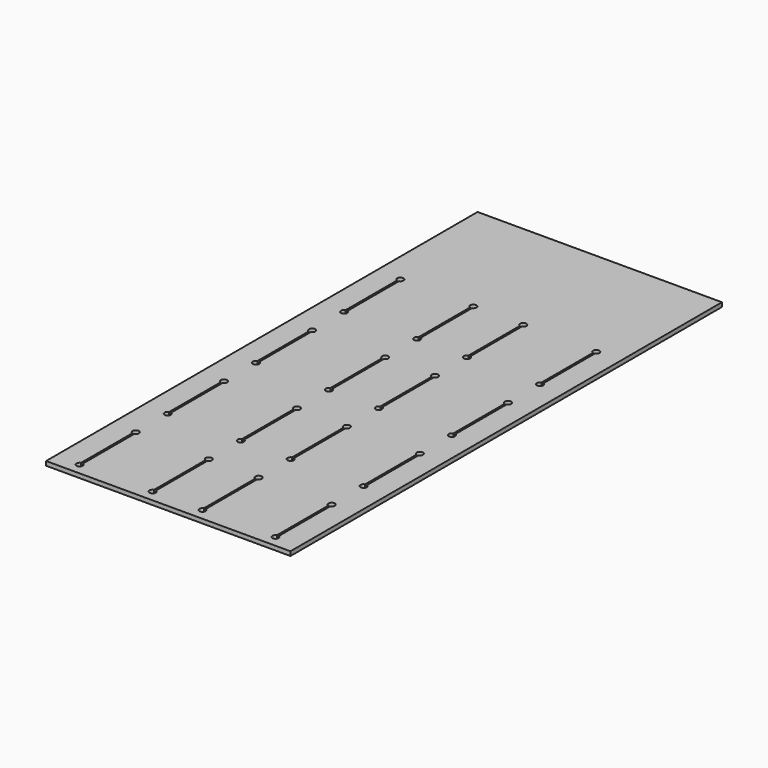
from build123d import *

# Parameters (mm, degrees)
F0_W     = 1104.9
F0_H     = 2438.4
F1_DEPTH = 19.05
F3_DEPTH = 3.175
F5_DEPTH = 25.4


with BuildPart() as f1:
    # F0 (on Top) → F1 (new body)
    with BuildSketch(Plane.XY):
        with Locations((609.6, 1219.2)):
            Rectangle(F0_W, F0_H)
    extrude(amount=F1_DEPTH)

    # F2 (on Top) → F3 (cut)
    with BuildSketch(Plane.XY):
        with BuildLine():
            Line((180.975, 52.3875), (180.975, 369.8875))
            ThreePointArc((180.975, 369.8875), (166.6875, 384.175), (152.4, 369.8875))
            Line((152.4, 369.8875), (152.4, 52.3875))
            ThreePointArc((152.4, 52.3875), (166.6875, 38.1), (180.975, 52.3875))
        make_face()
        with BuildLine():
            ThreePointArc((1066.8, 369.8875), (1052.5125, 384.175), (1038.225, 369.8875))
            Line((1038.225, 369.8875), (1038.225, 52.3875))
            ThreePointArc((1038.225, 52.3875), (1052.5125, 38.1), (1066.8, 52.3875))
            Line((1066.8, 52.3875), (1066.8, 369.8875))
        make_face()
        with BuildLine():
            Line((482.6, 369.8875), (482.6, 52.3875))
            ThreePointArc((482.6, 52.3875), (496.8875, 38.1), (511.175, 52.3875))
            Line((511.175, 52.3875), (511.175, 369.8875))
            ThreePointArc((511.175, 369.8875), (496.8875, 384.175), (482.6, 369.8875))
        make_face()
        with BuildLine():
            ThreePointArc((736.6, 369.8875), (722.3125, 384.175), (708.025, 369.8875))
            Line((708.025, 369.8875), (708.025, 52.3875))
            ThreePointArc((708.025, 52.3875), (722.3125, 38.1), (736.6, 52.3875))
            Line((736.6, 52.3875), (736.6, 369.8875))
        make_face()
        with BuildLine():
            ThreePointArc((152.4, 550.8625), (166.6875, 536.575), (180.975, 550.8625))
            Line((180.975, 550.8625), (180.975, 868.3625))
            ThreePointArc((180.975, 868.3625), (166.6875, 882.65), (152.4, 868.3625))
            Line((152.4, 868.3625), (152.4, 550.8625))
        make_face()
        with BuildLine():
            Line((152.4, 1366.8375), (152.4, 1049.3375))
            ThreePointArc((152.4, 1049.3375), (166.6875, 1035.05), (180.975, 1049.3375))
            Line((180.975, 1049.3375), (180.975, 1366.8375))
            ThreePointArc((180.975, 1366.8375), (166.6875, 1381.125), (152.4, 1366.8375))
        make_face()
        with BuildLine():
            ThreePointArc((152.4, 1547.8125), (166.6875, 1533.525), (180.975, 1547.8125))
            Line((180.975, 1547.8125), (180.975, 1865.3125))
            ThreePointArc((180.975, 1865.3125), (166.6875, 1879.6), (152.4, 1865.3125))
            Line((152.4, 1865.3125), (152.4, 1547.8125))
        make_face()
        with BuildLine():
            ThreePointArc((511.175, 1865.3125), (496.8875, 1879.6), (482.6, 1865.3125))
            Line((482.6, 1865.3125), (482.6, 1547.8125))
            ThreePointArc((482.6, 1547.8125), (496.8875, 1533.525), (511.175, 1547.8125))
            Line((511.175, 1547.8125), (511.175, 1865.3125))
        make_face()
        with BuildLine():
            Line((1038.225, 868.3625), (1038.225, 550.8625))
            ThreePointArc((1038.225, 550.8625), (1052.5125, 536.575), (1066.8, 550.8625))
            Line((1066.8, 550.8625), (1066.8, 868.3625))
            ThreePointArc((1066.8, 868.3625), (1052.5125, 882.65), (1038.225, 868.3625))
        make_face()
        with BuildLine():
            Line((708.025, 868.3625), (708.025, 550.8625))
            ThreePointArc((708.025, 550.8625), (722.3125, 536.575), (736.6, 550.8625))
            Line((736.6, 550.8625), (736.6, 868.3625))
            ThreePointArc((736.6, 868.3625), (722.3125, 882.65), (708.025, 868.3625))
        make_face()
        with BuildLine():
            ThreePointArc((482.6, 550.8625), (496.8875, 536.575), (511.175, 550.8625))
            Line((511.175, 550.8625), (511.175, 868.3625))
            ThreePointArc((511.175, 868.3625), (496.8875, 882.65), (482.6, 868.3625))
            Line((482.6, 868.3625), (482.6, 550.8625))
        make_face()
        with BuildLine():
            ThreePointArc((708.025, 1049.3375), (722.3125, 1035.05), (736.6, 1049.3375))
            Line((736.6, 1049.3375), (736.6, 1366.8375))
            ThreePointArc((736.6, 1366.8375), (722.3125, 1381.125), (708.025, 1366.8375))
            Line((708.025, 1366.8375), (708.025, 1049.3375))
        make_face()
        with BuildLine():
            Line((708.025, 1865.3125), (708.025, 1547.8125))
            ThreePointArc((708.025, 1547.8125), (722.3125, 1533.525), (736.6, 1547.8125))
            Line((736.6, 1547.8125), (736.6, 1865.3125))
            ThreePointArc((736.6, 1865.3125), (722.3125, 1879.6), (708.025, 1865.3125))
        make_face()
        with BuildLine():
            Line((1038.225, 1865.3125), (1038.225, 1547.8125))
            ThreePointArc((1038.225, 1547.8125), (1052.5125, 1533.525), (1066.8, 1547.8125))
            Line((1066.8, 1547.8125), (1066.8, 1865.3125))
            ThreePointArc((1066.8, 1865.3125), (1052.5125, 1879.6), (1038.225, 1865.3125))
        make_face()
        with BuildLine():
            ThreePointArc((1038.225, 1049.3375), (1052.5125, 1035.05), (1066.8, 1049.3375))
            Line((1066.8, 1049.3375), (1066.8, 1366.8375))
            ThreePointArc((1066.8, 1366.8375), (1052.5125, 1381.125), (1038.225, 1366.8375))
            Line((1038.225, 1366.8375), (1038.225, 1049.3375))
        make_face()
        with BuildLine():
            Line((511.175, 1049.3375), (511.175, 1366.8375))
            ThreePointArc((511.175, 1366.8375), (496.8875, 1381.125), (482.6, 1366.8375))
            Line((482.6, 1366.8375), (482.6, 1049.3375))
            ThreePointArc((482.6, 1049.3375), (496.8875, 1035.05), (511.175, 1049.3375))
        make_face()
    extrude(amount=F3_DEPTH, mode=Mode.SUBTRACT)

    # F4 (on Top) → F5 (cut)
    with BuildSketch(Plane.XY):
        with BuildLine():
            Line((1048.0675, 356.309038), (1048.0675, 65.965962))
            ThreePointArc((1048.0675, 65.965962), (1052.5125, 38.1), (1056.9575, 65.965962))
            Line((1056.9575, 65.965962), (1056.9575, 356.309038))
            ThreePointArc((1056.9575, 356.309038), (1052.5125, 384.175), (1048.0675, 356.309038))
        make_face()
        with BuildLine():
            Line((726.7575, 65.965962), (726.7575, 356.309038))
            ThreePointArc((726.7575, 356.309038), (722.3125, 384.175), (717.8675, 356.309038))
            Line((717.8675, 356.309038), (717.8675, 65.965962))
            ThreePointArc((717.8675, 65.965962), (722.3125, 38.1), (726.7575, 65.965962))
        make_face()
        with BuildLine():
            Line((501.3325, 65.965962), (501.3325, 356.309038))
            ThreePointArc((501.3325, 356.309038), (496.8875, 384.175), (492.4425, 356.309038))
            Line((492.4425, 356.309038), (492.4425, 65.965962))
            ThreePointArc((492.4425, 65.965962), (496.8875, 38.1), (501.3325, 65.965962))
        make_face()
        with BuildLine():
            Line((171.1325, 65.965962), (171.1325, 356.309038))
            ThreePointArc((171.1325, 356.309038), (166.6875, 384.175), (162.2425, 356.309038))
            Line((162.2425, 356.309038), (162.2425, 65.965962))
            ThreePointArc((162.2425, 65.965962), (166.6875, 38.1), (171.1325, 65.965962))
        make_face()
        with BuildLine():
            Line((501.3325, 564.440962), (501.3325, 854.784038))
            ThreePointArc((501.3325, 854.784038), (496.8875, 882.65), (492.4425, 854.784038))
            Line((492.4425, 854.784038), (492.4425, 564.440962))
            ThreePointArc((492.4425, 564.440962), (496.8875, 536.575), (501.3325, 564.440962))
        make_face()
        with BuildLine():
            Line((717.8675, 854.784038), (717.8675, 564.440962))
            ThreePointArc((717.8675, 564.440962), (722.3125, 536.575), (726.7575, 564.440962))
            Line((726.7575, 564.440962), (726.7575, 854.784038))
            ThreePointArc((726.7575, 854.784038), (722.3125, 882.65), (717.8675, 854.784038))
        make_face()
        with BuildLine():
            Line((171.1325, 564.440962), (171.1325, 854.784038))
            ThreePointArc((171.1325, 854.784038), (166.6875, 882.65), (162.2425, 854.784038))
            Line((162.2425, 854.784038), (162.2425, 564.440962))
            ThreePointArc((162.2425, 564.440962), (166.6875, 536.575), (171.1325, 564.440962))
        make_face()
        with BuildLine():
            Line((1048.0675, 854.784038), (1048.0675, 564.440962))
            ThreePointArc((1048.0675, 564.440962), (1052.5125, 536.575), (1056.9575, 564.440962))
            Line((1056.9575, 564.440962), (1056.9575, 854.784038))
            ThreePointArc((1056.9575, 854.784038), (1052.5125, 882.65), (1048.0675, 854.784038))
        make_face()
        with BuildLine():
            Line((501.3325, 1062.915962), (501.3325, 1353.259038))
            ThreePointArc((501.3325, 1353.259038), (496.8875, 1381.125), (492.4425, 1353.259038))
            Line((492.4425, 1353.259038), (492.4425, 1062.915962))
            ThreePointArc((492.4425, 1062.915962), (496.8875, 1035.05), (501.3325, 1062.915962))
        make_face()
        with BuildLine():
            Line((717.8675, 1353.259038), (717.8675, 1062.915962))
            ThreePointArc((717.8675, 1062.915962), (722.3125, 1035.05), (726.7575, 1062.915962))
            Line((726.7575, 1062.915962), (726.7575, 1353.259038))
            ThreePointArc((726.7575, 1353.259038), (722.3125, 1381.125), (717.8675, 1353.259038))
        make_face()
        with BuildLine():
            Line((171.1325, 1062.915962), (171.1325, 1353.259038))
            ThreePointArc((171.1325, 1353.259038), (166.6875, 1381.125), (162.2425, 1353.259038))
            Line((162.2425, 1353.259038), (162.2425, 1062.915962))
            ThreePointArc((162.2425, 1062.915962), (166.6875, 1035.05), (171.1325, 1062.915962))
        make_face()
        with BuildLine():
            Line((1048.0675, 1353.259038), (1048.0675, 1062.915962))
            ThreePointArc((1048.0675, 1062.915962), (1052.5125, 1035.05), (1056.9575, 1062.915962))
            Line((1056.9575, 1062.915962), (1056.9575, 1353.259038))
            ThreePointArc((1056.9575, 1353.259038), (1052.5125, 1381.125), (1048.0675, 1353.259038))
        make_face()
        with BuildLine():
            Line((501.3325, 1561.390962), (501.3325, 1851.734038))
            ThreePointArc((501.3325, 1851.734038), (496.8875, 1879.6), (492.4425, 1851.734038))
            Line((492.4425, 1851.734038), (492.4425, 1561.390962))
            ThreePointArc((492.4425, 1561.390962), (496.8875, 1533.525), (501.3325, 1561.390962))
        make_face()
        with BuildLine():
            Line((717.8675, 1851.734038), (717.8675, 1561.390962))
            ThreePointArc((717.8675, 1561.390962), (722.3125, 1533.525), (726.7575, 1561.390962))
            Line((726.7575, 1561.390962), (726.7575, 1851.734038))
            ThreePointArc((726.7575, 1851.734038), (722.3125, 1879.6), (717.8675, 1851.734038))
        make_face()
        with BuildLine():
            Line((171.1325, 1561.390962), (171.1325, 1851.734038))
            ThreePointArc((171.1325, 1851.734038), (166.6875, 1879.6), (162.2425, 1851.734038))
            Line((162.2425, 1851.734038), (162.2425, 1561.390962))
            ThreePointArc((162.2425, 1561.390962), (166.6875, 1533.525), (171.1325, 1561.390962))
        make_face()
        with BuildLine():
            Line((1048.0675, 1851.734038), (1048.0675, 1561.390962))
            ThreePointArc((1048.0675, 1561.390962), (1052.5125, 1533.525), (1056.9575, 1561.390962))
            Line((1056.9575, 1561.390962), (1056.9575, 1851.734038))
            ThreePointArc((1056.9575, 1851.734038), (1052.5125, 1879.6), (1048.0675, 1851.734038))
        make_face()
    extrude(amount=F5_DEPTH, mode=Mode.SUBTRACT)


solid = f1.part
